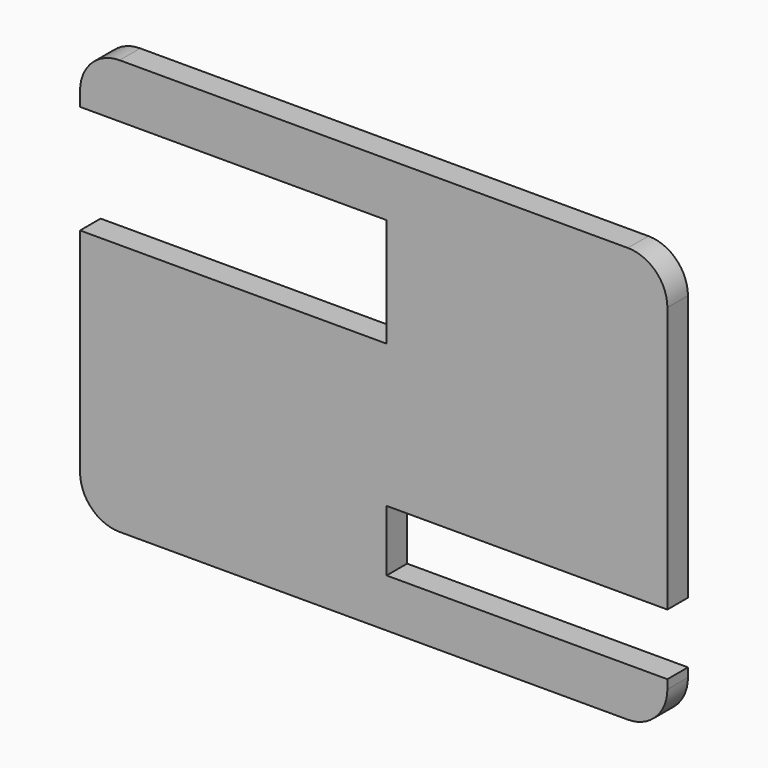
from build123d import *

# Parameters (mm, degrees)
F1_DEPTH = 13
F2_W     = 142
F2_H     = 31
F2_W_2   = 155
F2_H_2   = 55
F3_DEPTH = 25


with BuildPart() as f1:
    # F0 (on Front) → F1 (new body)
    with BuildSketch(Plane.XZ):
        with BuildLine():
            Line((149.365942, 76.671234), (-107.634058, 76.671234))
            ThreePointArc((-107.634058, 76.671234), (-121.776193, 70.81337), (-127.634058, 56.671234))
            Line((-127.634058, 56.671234), (-127.634058, -113.328766))
            ThreePointArc((-127.634058, -113.328766), (-121.776193, -127.470901), (-107.634058, -133.328766))
            Line((-107.634058, -133.328766), (149.365942, -133.328766))
            ThreePointArc((149.365942, -133.328766), (163.508078, -127.470901), (169.365942, -113.328766))
            Line((169.365942, -113.328766), (169.365942, 56.671234))
            ThreePointArc((169.365942, 56.671234), (163.508078, 70.81337), (149.365942, 76.671234))
        make_face()
    extrude(amount=F1_DEPTH)

    # F2 (on face) → F3 (cut)
    with BuildSketch(Plane.XZ.offset(13)):
        with Locations((98.365942, -93.316244)):
            Rectangle(F2_W, F2_H)
        with Locations((-50.134058, 21.88526)):
            Rectangle(F2_W_2, F2_H_2)
    extrude(amount=-F3_DEPTH, mode=Mode.SUBTRACT)


solid = f1.part
